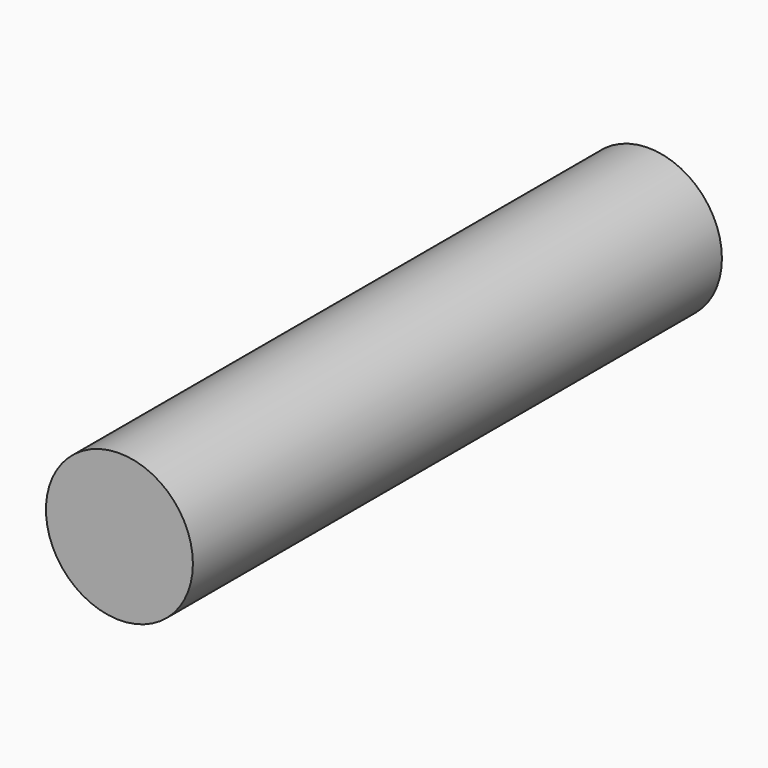
from build123d import *

# Parameters (mm, degrees)
SKETCH_R  = 2.5
PAD_DEPTH = 22.5


with BuildPart() as part:
    # Sketch → Pad (new body)
    with BuildSketch(Plane.XZ):
        Circle(SKETCH_R)
    extrude(amount=PAD_DEPTH)


solid = part.part
